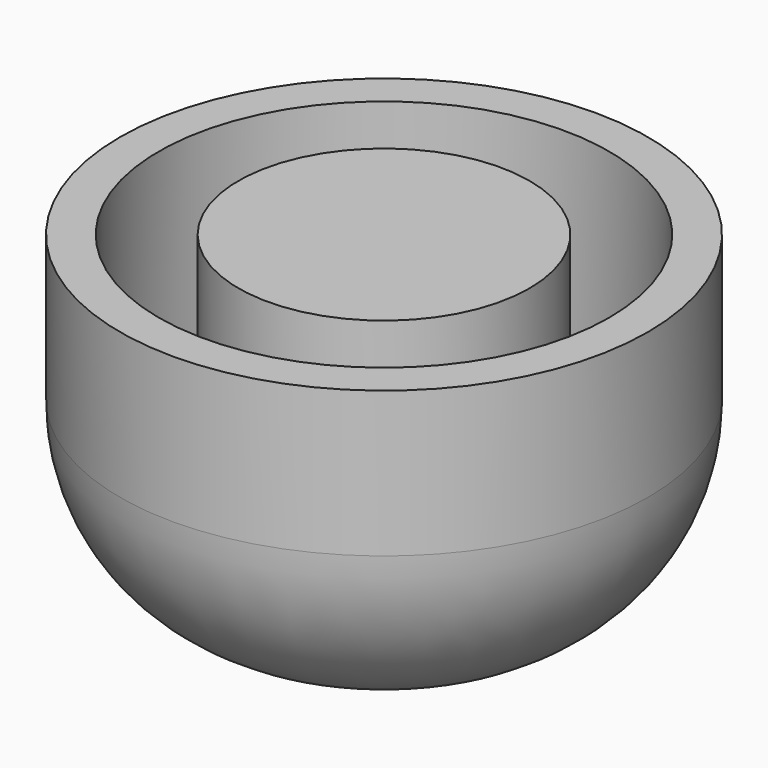
from build123d import *

# Parameters (mm, degrees)
F0_R     = 3.4544
F0_R_2   = 2.9464
F1_DEPTH = 4.445
F2_DEPTH = 1.905
F3_R     = 1.905
F4_DEPTH = 2.54
F5_R     = 2.54


with BuildPart() as f1:
    # F0 (on Top) → F1 (new body)
    with BuildSketch(Plane.XY):
        Circle(F0_R)
        Circle(F0_R_2, mode=Mode.SUBTRACT)
    extrude(amount=F1_DEPTH)

    # F0 (on Top) → F2 (join)
    with BuildSketch(Plane.XY):
        Circle(F0_R)
        Circle(F0_R_2, mode=Mode.SUBTRACT)
        Circle(F0_R_2)
    extrude(amount=F2_DEPTH)

    # F3 (on face) → F4 (join)
    with BuildSketch(Plane.XY.offset(1.905)):
        Circle(F3_R)
    extrude(amount=F4_DEPTH)

    # F5
    f5_edges = [f1.edges().sort_by_distance(p)[0] for p in [
        (-3.4544, 0, 0),
    ]]
    fillet(f5_edges, radius=F5_R)


solid = f1.part
